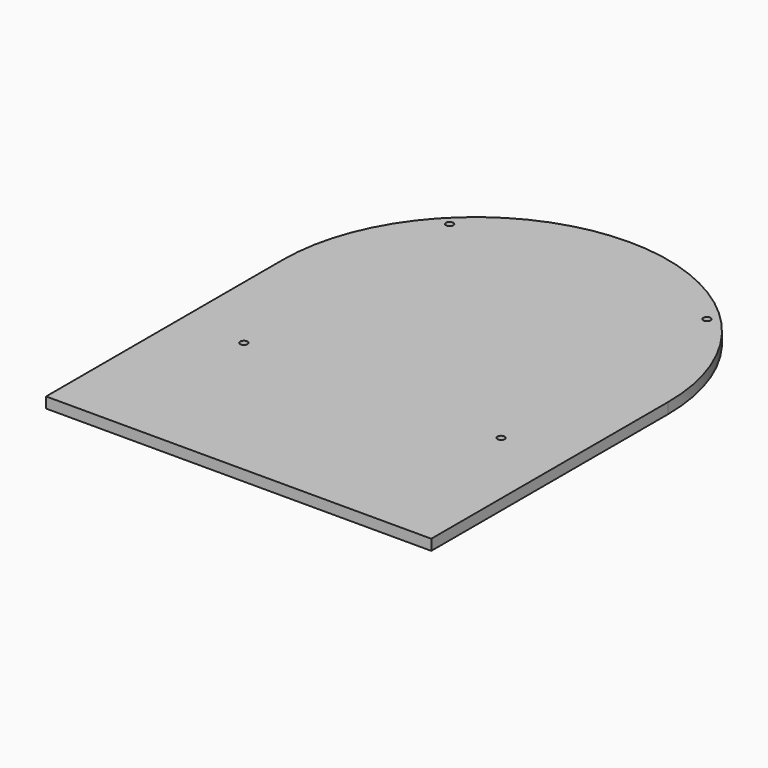
from build123d import *

# Parameters (mm, degrees)
F0_R     = 2.15265
F1_DEPTH = 6.35


with BuildPart() as f1:
    # F0 (on Top) → F1 (new body)
    with BuildSketch(Plane.XY):
        with BuildLine():
            Line((-228.6, -175.571772), (0, -175.571772))
            Line((0, -175.571772), (0, 0))
            ThreePointArc((0, 0), (-114.3, 114.3), (-228.6, 0))
            Line((-228.6, 0), (-228.6, -175.571772))
        make_face()
        with Locations((-190.632177, -76.332177)):
            Circle(F0_R, mode=Mode.SUBTRACT)
        with Locations((-37.967823, -76.332177)):
            Circle(F0_R, mode=Mode.SUBTRACT)
        with Locations((-190.632177, 76.332177)):
            Circle(F0_R, mode=Mode.SUBTRACT)
        with Locations((-37.967823, 76.332177)):
            Circle(F0_R, mode=Mode.SUBTRACT)
    extrude(amount=F1_DEPTH)


solid = f1.part
